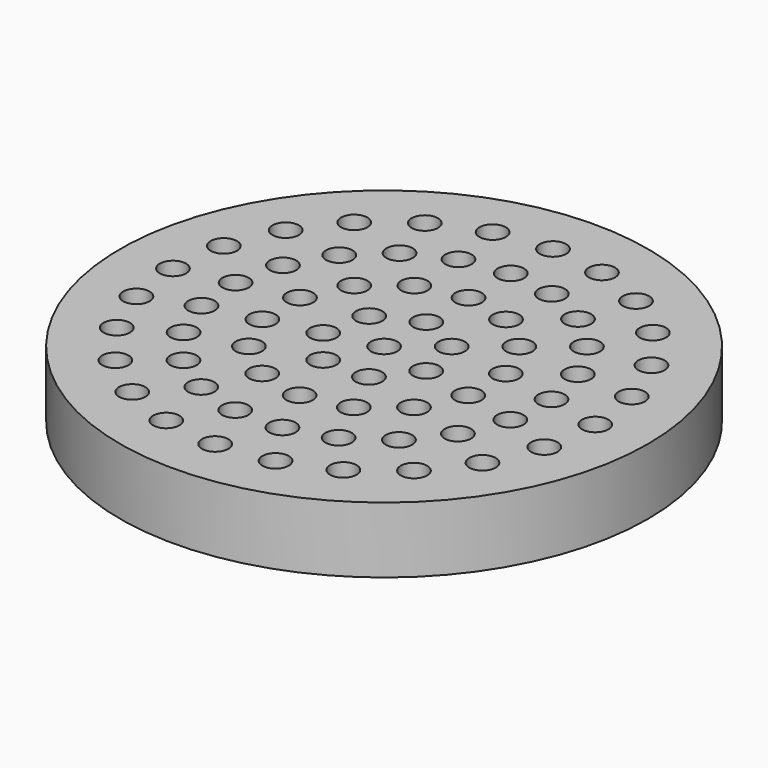
from build123d import *

# Parameters (mm, degrees)
F1_R     = 100
F2_DEPTH = 25
F0_R     = 5
F3_DEPTH = 25.001


with BuildPart() as f2:
    # F1 (on Top) → F2 (new body)
    with BuildSketch(Plane.XY):
        Circle(F1_R)
    extrude(amount=F2_DEPTH)

    # F0 (on Top) → F3 (cut, through all)
    with BuildSketch(Plane.XY):
        Circle(F0_R)
        with Locations((0, 20)):
            Circle(F0_R)
        with Locations((0, 40)):
            Circle(F0_R)
        with Locations((0, 60)):
            Circle(F0_R)
        with Locations((0, 80)):
            Circle(F0_R)
        with Locations((-20.705524, 77.274066)):
            Circle(F0_R)
        with Locations((-40, 69.282032)):
            Circle(F0_R)
        with Locations((-56.568542, 56.568542)):
            Circle(F0_R)
        with Locations((-69.282032, 40)):
            Circle(F0_R)
        with Locations((-77.274066, 20.705524)):
            Circle(F0_R)
        with Locations((-80, 0)):
            Circle(F0_R)
        with Locations((-77.274066, -20.705524)):
            Circle(F0_R)
        with Locations((-69.282032, -40)):
            Circle(F0_R)
        with Locations((-56.568542, -56.568542)):
            Circle(F0_R)
        with Locations((-40, -69.282032)):
            Circle(F0_R)
        with Locations((-20.705524, -77.274066)):
            Circle(F0_R)
        with Locations((0, -80)):
            Circle(F0_R)
        with Locations((20.705524, -77.274066)):
            Circle(F0_R)
        with Locations((40, -69.282032)):
            Circle(F0_R)
        with Locations((56.568542, -56.568542)):
            Circle(F0_R)
        with Locations((69.282032, -40)):
            Circle(F0_R)
        with Locations((77.274066, -20.705524)):
            Circle(F0_R)
        with Locations((80, 0)):
            Circle(F0_R)
        with Locations((77.274066, 20.705524)):
            Circle(F0_R)
        with Locations((69.282032, 40)):
            Circle(F0_R)
        with Locations((56.568542, 56.568542)):
            Circle(F0_R)
        with Locations((40, 69.282032)):
            Circle(F0_R)
        with Locations((20.705524, 77.274066)):
            Circle(F0_R)
        with Locations((-17.68531, 57.334368)):
            Circle(F0_R)
        with Locations((-33.799203, 49.574326)):
            Circle(F0_R)
        with Locations((-46.909889, 37.409388)):
            Circle(F0_R)
        with Locations((-55.852425, 21.920461)):
            Circle(F0_R)
        with Locations((-59.832228, 4.483806)):
            Circle(F0_R)
        with Locations((-58.495675, -13.351256)):
            Circle(F0_R)
        with Locations((-51.961524, -30)):
            Circle(F0_R)
        with Locations((-40.810364, -43.983112)):
            Circle(F0_R)
        with Locations((-26.033024, -54.058132)):
            Circle(F0_R)
        with Locations((-8.942536, -59.32985)):
            Circle(F0_R)
        with Locations((8.942536, -59.32985)):
            Circle(F0_R)
        with Locations((26.033024, -54.058132)):
            Circle(F0_R)
        with Locations((40.810364, -43.983112)):
            Circle(F0_R)
        with Locations((51.961524, -30)):
            Circle(F0_R)
        with Locations((58.495675, -13.351256)):
            Circle(F0_R)
        with Locations((59.832228, 4.483806)):
            Circle(F0_R)
        with Locations((55.852425, 21.920461)):
            Circle(F0_R)
        with Locations((46.909889, 37.409388)):
            Circle(F0_R)
        with Locations((33.799203, 49.574326)):
            Circle(F0_R)
        with Locations((17.68531, 57.334368)):
            Circle(F0_R)
        with Locations((-15.63663, 12.469796)):
            Circle(F0_R)
        with Locations((-19.498558, -4.450419)):
            Circle(F0_R)
        with Locations((-8.677675, -18.019377)):
            Circle(F0_R)
        with Locations((8.677675, -18.019377)):
            Circle(F0_R)
        with Locations((19.498558, -4.450419)):
            Circle(F0_R)
        with Locations((15.63663, 12.469796)):
            Circle(F0_R)
        with Locations((-17.35535, 36.038755)):
            Circle(F0_R)
        with Locations((-31.273259, 24.939592)):
            Circle(F0_R)
        with Locations((-38.997116, 8.900837)):
            Circle(F0_R)
        with Locations((-38.997116, -8.900837)):
            Circle(F0_R)
        with Locations((-31.273259, -24.939592)):
            Circle(F0_R)
        with Locations((-17.35535, -36.038755)):
            Circle(F0_R)
        with Locations((0, -40)):
            Circle(F0_R)
        with Locations((17.35535, -36.038755)):
            Circle(F0_R)
        with Locations((31.273259, -24.939592)):
            Circle(F0_R)
        with Locations((38.997116, -8.900837)):
            Circle(F0_R)
        with Locations((38.997116, 8.900837)):
            Circle(F0_R)
        with Locations((31.273259, 24.939592)):
            Circle(F0_R)
        with Locations((17.35535, 36.038755)):
            Circle(F0_R)
    extrude(amount=F3_DEPTH, mode=Mode.SUBTRACT)


solid = f2.part
